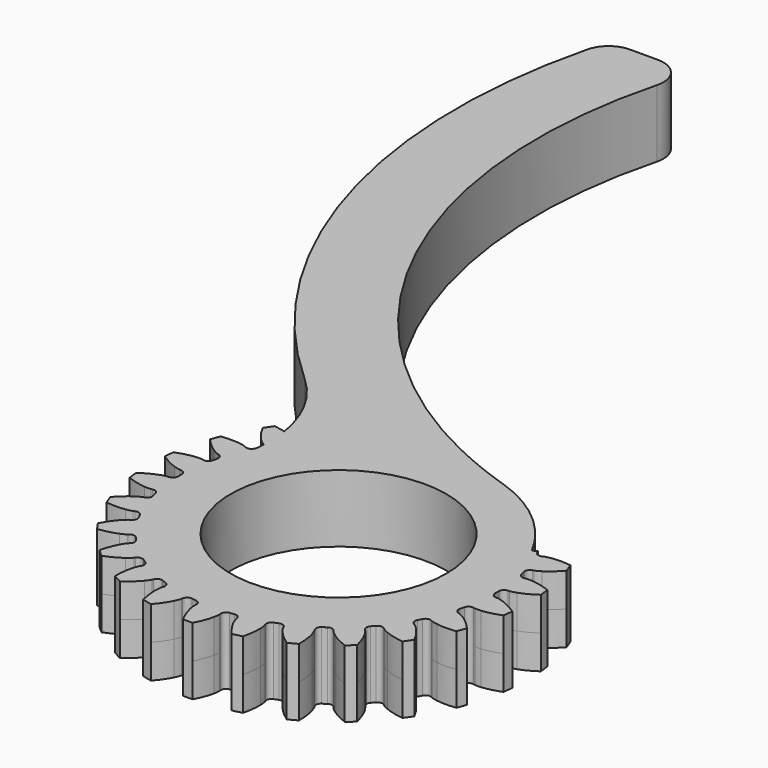
from build123d import *

# Parameters (mm, degrees)
SKETCH019_R     = 8
PAD013_DEPTH    = 2.5
FILLET005_R     = 10
FILLET006_R     = 2
CHAMFER002_SIZE = 0.8
PAD014_DEPTH    = 2.5
SKETCH020_R     = 8
POCKET007_DEPTH = 5.001
POCKET008_DEPTH = 5


with BuildPart() as part:
    # Sketch019 → Pad013 (new body, symmetric)
    with BuildSketch(Plane.XY):
        with BuildLine():
            ThreePointArc((-35, 12), (-33.110427, -16.51362), (-11.470762, -35.177004))
            ThreePointArc((-21.943947, -36.979226), (-13.06944, -57.218988), (-11.470762, -35.177004))
            ThreePointArc((-41.291646, 12), (-39.992827, -15.797905), (-21.943947, -36.979226))
            Line((-41.291646, 12), (-35, 12))
        make_face()
        with Locations((-15, -46)):
            Circle(SKETCH019_R, mode=Mode.SUBTRACT)
    extrude(amount=PAD013_DEPTH, both=True)

    # Fillet005
    fillet005_edges = [part.edges().sort_by_distance(p)[0] for p in [
        (-21.943947, -36.979226, 0),
    ]]
    fillet(fillet005_edges, radius=FILLET005_R)

    # Fillet006
    fillet006_edges = [part.edges().sort_by_distance(p)[0] for p in [
        (-41.291646, 12, 0),
        (-35, 12, 0),
    ]]
    fillet(fillet006_edges, radius=FILLET006_R)

    # Chamfer002
    chamfer002_edges = [part.edges().sort_by_distance(p)[0] for p in [
        (-23, -46, 2.5),
        (-23, -46, -2.5),
    ]]
    chamfer(chamfer002_edges, length=CHAMFER002_SIZE)

    # InvoluteGear002 → Pad014 (join, symmetric)
    with BuildSketch(Plane(origin=(-15, -46, 0), x_dir=(0.992546, 0.121869, 0), z_dir=(0, 0, 1))):
        with BuildLine():
            Line((12.095609, -0.912763), (12.201012, -0.919963))
            add(Edge.make_bspline(
                [(12.201012, -0.919963), (12.252999, -0.920942), (12.409636, -0.91804), (12.670504, -0.863228)],
                knots=[0, 0, 0, 0, 1, 1, 1, 1], degree=3))
            add(Edge.make_bspline(
                [(12.670504, -0.863228), (12.983071, -0.796742), (13.434622, -0.656345), (13.996362, -0.361494)],
                knots=[0, 0, 0, 0, 1, 1, 1, 1], degree=3))
            ThreePointArc((13.996362, -0.361494), (14.000515, 0.000191), (13.995323, 0.361861))
            add(Edge.make_bspline(
                [(13.995323, 0.361861), (13.434622, 0.656345), (12.983071, 0.796742), (12.670504, 0.863228)],
                knots=[0, 0, 0, 0, 1, 1, 1, 1], degree=3))
            add(Edge.make_bspline(
                [(12.670504, 0.863228), (12.409636, 0.91804), (12.252999, 0.920942), (12.201012, 0.919963)],
                knots=[0, 0, 0, 0, 1, 1, 1, 1], degree=3))
            Line((12.201012, 0.919963), (12.095609, 0.912763))
            ThreePointArc((12.095609, 0.912763), (11.820254, 0.99725), (11.683256, 1.250608))
            ThreePointArc((11.683256, 1.250608), (11.664329, 1.416306), (11.643052, 1.581719))
            ThreePointArc((11.643052, 1.581719), (11.715437, 1.8605), (11.962571, 2.008429))
            Line((11.962571, 2.008429), (12.066634, 2.026663))
            add(Edge.make_bspline(
                [(12.066634, 2.026663), (12.117345, 2.038154), (12.268736, 2.078457), (12.508906, 2.194106)],
                knots=[0, 0, 0, 0, 1, 1, 1, 1], degree=3))
            add(Edge.make_bspline(
                [(12.508906, 2.194106), (12.79648, 2.333462), (13.20131, 2.577843), (13.676164, 2.998559)],
                knots=[0, 0, 0, 0, 1, 1, 1, 1], degree=3))
            ThreePointArc((13.676164, 2.998559), (13.59364, 3.350727), (13.502045, 3.700646))
            add(Edge.make_bspline(
                [(13.502045, 3.700646), (12.887162, 3.852388), (12.415134, 3.880643), (12.095739, 3.870394)],
                knots=[0, 0, 0, 0, 1, 1, 1, 1], degree=3))
            add(Edge.make_bspline(
                [(12.095739, 3.870394), (11.829334, 3.861183), (11.676553, 3.826516), (11.626311, 3.813123)],
                knots=[0, 0, 0, 0, 1, 1, 1, 1], degree=3))
            Line((11.626311, 3.813123), (11.525694, 3.780909))
            ThreePointArc((11.525694, 3.780909), (11.238122, 3.797044), (11.044472, 4.010253))
            ThreePointArc((11.044472, 4.010253), (10.986441, 4.166607), (10.926196, 4.322122))
            ThreePointArc((10.926196, 4.322122), (10.929761, 4.610125), (11.134312, 4.812898))
            Line((11.134312, 4.812898), (11.230987, 4.855506))
            add(Edge.make_bspline(
                [(11.230987, 4.855506), (11.277475, 4.878799), (11.414822, 4.954162), (11.620336, 5.123927)],
                knots=[0, 0, 0, 0, 1, 1, 1, 1], degree=3))
            add(Edge.make_bspline(
                [(11.620336, 5.123927), (11.866203, 5.328054), (12.200786, 5.662215), (12.561157, 6.184347)],
                knots=[0, 0, 0, 0, 1, 1, 1, 1], degree=3))
            ThreePointArc((12.561157, 6.184347), (12.396752, 6.506532), (12.224077, 6.824363))
            add(Edge.make_bspline(
                [(12.224077, 6.824363), (11.590748, 6.824545), (11.125674, 6.739014), (10.818013, 6.652627)],
                knots=[0, 0, 0, 0, 1, 1, 1, 1], degree=3))
            add(Edge.make_bspline(
                [(10.818013, 6.652627), (10.561553, 6.579929), (10.421509, 6.509706), (10.375931, 6.484679)],
                knots=[0, 0, 0, 0, 1, 1, 1, 1], degree=3))
            Line((10.375931, 6.484679), (10.285948, 6.429322))
            ThreePointArc((10.285948, 6.429322), (10.00287, 6.376167), (9.763823, 6.536838))
            ThreePointArc((9.763823, 6.536838), (9.67006, 6.674761), (9.574349, 6.811339))
            ThreePointArc((9.574349, 6.811339), (9.508887, 7.091826), (9.658968, 7.337659))
            Line((9.658968, 7.337659), (9.742636, 7.402165))
            add(Edge.make_bspline(
                [(9.742636, 7.402165), (9.782199, 7.435906), (9.897519, 7.541949), (10.056434, 7.755963)],
                knots=[0, 0, 0, 0, 1, 1, 1, 1], degree=3))
            add(Edge.make_bspline(
                [(10.056434, 7.755963), (10.246306, 8.012998), (10.491196, 8.417521), (10.716142, 9.010723)],
                knots=[0, 0, 0, 0, 1, 1, 1, 1], degree=3))
            ThreePointArc((10.716142, 9.010723), (10.479409, 9.284201), (10.235691, 9.551473))
            add(Edge.make_bspline(
                [(10.235691, 9.551473), (9.620722, 9.400084), (9.18963, 9.205739), (8.911583, 9.048234)],
                knots=[0, 0, 0, 0, 1, 1, 1, 1], degree=3))
            add(Edge.make_bspline(
                [(8.911583, 9.048234), (8.679973, 8.916274), (8.560804, 8.814576), (8.52254, 8.779369)],
                knots=[0, 0, 0, 0, 1, 1, 1, 1], degree=3))
            Line((8.52254, 8.779369), (8.448419, 8.704086))
            ThreePointArc((8.448419, 8.704086), (8.186288, 8.584731), (7.915737, 8.683525))
            ThreePointArc((7.915737, 8.683525), (7.791691, 8.795001), (7.666076, 8.904705))
            ThreePointArc((7.666076, 8.904705), (7.535391, 9.161376), (7.622279, 9.435982))
            Line((7.622279, 9.435982), (7.688079, 9.518637))
            add(Edge.make_bspline(
                [(7.688079, 9.518637), (7.718417, 9.560866), (7.805009, 9.691425), (7.908089, 9.937251)],
                knots=[0, 0, 0, 0, 1, 1, 1, 1], degree=3))
            add(Edge.make_bspline(
                [(7.908089, 9.937251), (8.030931, 10.232257), (8.171896, 10.68363), (8.248343, 11.313428)],
                knots=[0, 0, 0, 0, 1, 1, 1, 1], degree=3))
            ThreePointArc((8.248343, 11.313428), (7.953042, 11.522306), (7.652443, 11.723485))
            add(Edge.make_bspline(
                [(7.652443, 11.723485), (7.091574, 11.429324), (6.719519, 11.137459), (6.487244, 10.91799)],
                knots=[0, 0, 0, 0, 1, 1, 1, 1], degree=3))
            add(Edge.make_bspline(
                [(6.487244, 10.91799), (6.293945, 10.734436), (6.202576, 10.607175), (6.17385, 10.563834)],
                knots=[0, 0, 0, 0, 1, 1, 1, 1], degree=3))
            Line((6.17385, 10.563834), (6.1199, 10.473))
            ThreePointArc((6.1199, 10.473), (5.893949, 10.294381), (5.607616, 10.325558))
            ThreePointArc((5.607616, 10.325558), (5.460497, 10.404108), (5.312278, 10.480563))
            ThreePointArc((5.312278, 10.480563), (5.123965, 10.6985), (5.142611, 10.985921))
            Line((5.142611, 10.985921), (5.186718, 11.081921))
            add(Edge.make_bspline(
                [(5.186718, 11.081921), (5.206069, 11.130183), (5.2589, 11.27767), (5.300155, 11.541023)],
                knots=[0, 0, 0, 0, 1, 1, 1, 1], degree=3))
            add(Edge.make_bspline(
                [(5.300155, 11.541023), (5.348828, 11.856854), (5.377676, 12.328846), (5.301181, 12.958638)],
                knots=[0, 0, 0, 0, 1, 1, 1, 1], degree=3))
            ThreePointArc((5.301181, 12.958638), (4.964473, 13.090776), (4.624464, 13.214172))
            add(Edge.make_bspline(
                [(4.624464, 13.214172), (4.150289, 12.794333), (3.858893, 12.421911), (3.685891, 12.153232)],
                knots=[0, 0, 0, 0, 1, 1, 1, 1], degree=3))
            add(Edge.make_bspline(
                [(3.685891, 12.153232), (3.542136, 11.928753), (3.483878, 11.783324), (3.466358, 11.734367)],
                knots=[0, 0, 0, 0, 1, 1, 1, 1], degree=3))
            Line((3.466358, 11.734367), (3.435713, 11.633261))
            ThreePointArc((3.435713, 11.633261), (3.259075, 11.40576), (2.973601, 11.367506))
            ThreePointArc((2.973601, 11.367506), (2.811959, 11.408566), (2.64975, 11.447328))
            ThreePointArc((2.64975, 11.447328), (2.414753, 11.613866), (2.364073, 11.897397))
            Line((2.364073, 11.897397), (2.383924, 12.001163))
            add(Edge.make_bspline(
                [(2.383924, 12.001163), (2.391163, 12.052654), (2.407162, 12.208499), (2.384194, 12.474071)],
                knots=[0, 0, 0, 0, 1, 1, 1, 1], degree=3))
            add(Edge.make_bspline(
                [(2.384194, 12.474071), (2.35587, 12.792373), (2.270924, 13.257555), (2.045933, 13.850739)],
                knots=[0, 0, 0, 0, 1, 1, 1, 1], degree=3))
            ThreePointArc((2.045933, 13.850739), (1.687386, 13.898458), (1.327727, 13.936899))
            add(Edge.make_bspline(
                [(1.327727, 13.936899), (0.967805, 13.415782), (0.774003, 12.984447), (0.670327, 12.682173)],
                knots=[0, 0, 0, 0, 1, 1, 1, 1], degree=3))
            add(Edge.make_bspline(
                [(0.670327, 12.682173), (0.58447, 12.429814), (0.562709, 12.274668), (0.557414, 12.222942)],
                knots=[0, 0, 0, 0, 1, 1, 1, 1], degree=3))
            Line((0.557414, 12.222942), (0.551856, 12.11744))
            ThreePointArc((0.551856, 12.11744), (0.434795, 11.854277), (0.166772, 11.748816))
            ThreePointArc((0.166772, 11.748816), (0, 11.75), (-0.166772, 11.748816))
            ThreePointArc((-0.166772, 11.748816), (-0.434795, 11.854277), (-0.551856, 12.11744))
            Line((-0.551856, 12.11744), (-0.557414, 12.222942))
            add(Edge.make_bspline(
                [(-0.557414, 12.222942), (-0.562709, 12.274668), (-0.58447, 12.429814), (-0.670327, 12.682173)],
                knots=[0, 0, 0, 0, 1, 1, 1, 1], degree=3))
            add(Edge.make_bspline(
                [(-0.670327, 12.682173), (-0.774003, 12.984447), (-0.967805, 13.415782), (-1.328217, 13.937886)],
                knots=[0, 0, 0, 0, 1, 1, 1, 1], degree=3))
            ThreePointArc((-1.328217, 13.937886), (-1.687765, 13.898412), (-2.046173, 13.849663))
            add(Edge.make_bspline(
                [(-2.046173, 13.849663), (-2.270924, 13.257555), (-2.35587, 12.792373), (-2.384194, 12.474071)],
                knots=[0, 0, 0, 0, 1, 1, 1, 1], degree=3))
            add(Edge.make_bspline(
                [(-2.384194, 12.474071), (-2.407162, 12.208499), (-2.391163, 12.052654), (-2.383924, 12.001163)],
                knots=[0, 0, 0, 0, 1, 1, 1, 1], degree=3))
            Line((-2.383924, 12.001163), (-2.364073, 11.897397))
            ThreePointArc((-2.364073, 11.897397), (-2.414753, 11.613866), (-2.64975, 11.447328))
            ThreePointArc((-2.64975, 11.447328), (-2.811959, 11.408566), (-2.973601, 11.367506))
            ThreePointArc((-2.973601, 11.367506), (-3.259075, 11.40576), (-3.435713, 11.633261))
            Line((-3.435713, 11.633261), (-3.466358, 11.734367))
            add(Edge.make_bspline(
                [(-3.466358, 11.734367), (-3.483878, 11.783324), (-3.542136, 11.928753), (-3.685891, 12.153232)],
                knots=[0, 0, 0, 0, 1, 1, 1, 1], degree=3))
            add(Edge.make_bspline(
                [(-3.685891, 12.153232), (-3.858893, 12.421911), (-4.150289, 12.794333), (-4.625176, 13.215013)],
                knots=[0, 0, 0, 0, 1, 1, 1, 1], degree=3))
            ThreePointArc((-4.625176, 13.215013), (-4.964829, 13.090641), (-5.301156, 12.957536))
            add(Edge.make_bspline(
                [(-5.301156, 12.957536), (-5.377676, 12.328846), (-5.348828, 11.856854), (-5.300155, 11.541023)],
                knots=[0, 0, 0, 0, 1, 1, 1, 1], degree=3))
            add(Edge.make_bspline(
                [(-5.300155, 11.541023), (-5.2589, 11.27767), (-5.206069, 11.130183), (-5.186718, 11.081921)],
                knots=[0, 0, 0, 0, 1, 1, 1, 1], degree=3))
            Line((-5.186718, 11.081921), (-5.142611, 10.985921))
            ThreePointArc((-5.142611, 10.985921), (-5.123965, 10.6985), (-5.312278, 10.480563))
            ThreePointArc((-5.312278, 10.480563), (-5.460497, 10.404108), (-5.607616, 10.325558))
            ThreePointArc((-5.607616, 10.325558), (-5.893949, 10.294381), (-6.1199, 10.473))
            Line((-6.1199, 10.473), (-6.17385, 10.563834))
            add(Edge.make_bspline(
                [(-6.17385, 10.563834), (-6.202576, 10.607175), (-6.293945, 10.734436), (-6.487244, 10.91799)],
                knots=[0, 0, 0, 0, 1, 1, 1, 1], degree=3))
            add(Edge.make_bspline(
                [(-6.487244, 10.91799), (-6.719519, 11.137459), (-7.091574, 11.429324), (-7.653336, 11.724131)],
                knots=[0, 0, 0, 0, 1, 1, 1, 1], degree=3))
            ThreePointArc((-7.653336, 11.724131), (-7.953356, 11.522089), (-8.248055, 11.312364))
            add(Edge.make_bspline(
                [(-8.248055, 11.312364), (-8.171896, 10.68363), (-8.030931, 10.232257), (-7.908089, 9.937251)],
                knots=[0, 0, 0, 0, 1, 1, 1, 1], degree=3))
            add(Edge.make_bspline(
                [(-7.908089, 9.937251), (-7.805009, 9.691425), (-7.718417, 9.560866), (-7.688079, 9.518637)],
                knots=[0, 0, 0, 0, 1, 1, 1, 1], degree=3))
            Line((-7.688079, 9.518637), (-7.622279, 9.435982))
            ThreePointArc((-7.622279, 9.435982), (-7.535391, 9.161376), (-7.666076, 8.904705))
            ThreePointArc((-7.666076, 8.904705), (-7.791691, 8.795001), (-7.915737, 8.683525))
            ThreePointArc((-7.915737, 8.683525), (-8.186288, 8.584731), (-8.448419, 8.704086))
            Line((-8.448419, 8.704086), (-8.52254, 8.779369))
            add(Edge.make_bspline(
                [(-8.52254, 8.779369), (-8.560804, 8.814576), (-8.679973, 8.916274), (-8.911583, 9.048234)],
                knots=[0, 0, 0, 0, 1, 1, 1, 1], degree=3))
            add(Edge.make_bspline(
                [(-8.911583, 9.048234), (-9.18963, 9.205739), (-9.620722, 9.400084), (-10.236712, 9.551886)],
                knots=[0, 0, 0, 0, 1, 1, 1, 1], degree=3))
            ThreePointArc((-10.236712, 9.551886), (-10.479662, 9.283916), (-10.715608, 9.009759))
            add(Edge.make_bspline(
                [(-10.715608, 9.009759), (-10.491196, 8.417521), (-10.246306, 8.012998), (-10.056434, 7.755963)],
                knots=[0, 0, 0, 0, 1, 1, 1, 1], degree=3))
            add(Edge.make_bspline(
                [(-10.056434, 7.755963), (-9.897519, 7.541949), (-9.782199, 7.435906), (-9.742636, 7.402165)],
                knots=[0, 0, 0, 0, 1, 1, 1, 1], degree=3))
            Line((-9.742636, 7.402165), (-9.658968, 7.337659))
            ThreePointArc((-9.658968, 7.337659), (-9.508887, 7.091826), (-9.574349, 6.811339))
            ThreePointArc((-9.574349, 6.811339), (-9.67006, 6.674761), (-9.763823, 6.536838))
            ThreePointArc((-9.763823, 6.536838), (-10.00287, 6.376167), (-10.285948, 6.429322))
            Line((-10.285948, 6.429322), (-10.375931, 6.484679))
            add(Edge.make_bspline(
                [(-10.375931, 6.484679), (-10.421509, 6.509706), (-10.561553, 6.579929), (-10.818013, 6.652627)],
                knots=[0, 0, 0, 0, 1, 1, 1, 1], degree=3))
            add(Edge.make_bspline(
                [(-10.818013, 6.652627), (-11.125674, 6.739014), (-11.590748, 6.824545), (-12.225168, 6.82452)],
                knots=[0, 0, 0, 0, 1, 1, 1, 1], degree=3))
            ThreePointArc((-12.225168, 6.82452), (-12.396929, 6.506195), (-12.560408, 6.183539))
            add(Edge.make_bspline(
                [(-12.560408, 6.183539), (-12.200786, 5.662215), (-11.866203, 5.328054), (-11.620336, 5.123927)],
                knots=[0, 0, 0, 0, 1, 1, 1, 1], degree=3))
            add(Edge.make_bspline(
                [(-11.620336, 5.123927), (-11.414822, 4.954162), (-11.277475, 4.878799), (-11.230987, 4.855506)],
                knots=[0, 0, 0, 0, 1, 1, 1, 1], degree=3))
            Line((-11.230987, 4.855506), (-11.134312, 4.812898))
            ThreePointArc((-11.134312, 4.812898), (-10.929761, 4.610125), (-10.926196, 4.322122))
            ThreePointArc((-10.926196, 4.322122), (-10.986441, 4.166607), (-11.044472, 4.010253))
            ThreePointArc((-11.044472, 4.010253), (-11.238122, 3.797044), (-11.525694, 3.780909))
            Line((-11.525694, 3.780909), (-11.626311, 3.813123))
            add(Edge.make_bspline(
                [(-11.626311, 3.813123), (-11.676553, 3.826516), (-11.829334, 3.861183), (-12.095739, 3.870394)],
                knots=[0, 0, 0, 0, 1, 1, 1, 1], degree=3))
            add(Edge.make_bspline(
                [(-12.095739, 3.870394), (-12.415134, 3.880643), (-12.887162, 3.852388), (-13.503142, 3.700538)],
                knots=[0, 0, 0, 0, 1, 1, 1, 1], degree=3))
            ThreePointArc((-13.503142, 3.700538), (-13.593731, 3.350357), (-13.675243, 2.997954))
            add(Edge.make_bspline(
                [(-13.675243, 2.997954), (-13.20131, 2.577843), (-12.79648, 2.333462), (-12.508906, 2.194106)],
                knots=[0, 0, 0, 0, 1, 1, 1, 1], degree=3))
            add(Edge.make_bspline(
                [(-12.508906, 2.194106), (-12.268736, 2.078457), (-12.117345, 2.038154), (-12.066634, 2.026663)],
                knots=[0, 0, 0, 0, 1, 1, 1, 1], degree=3))
            Line((-12.066634, 2.026663), (-11.962571, 2.008429))
            ThreePointArc((-11.962571, 2.008429), (-11.715437, 1.8605), (-11.643052, 1.581719))
            ThreePointArc((-11.643052, 1.581719), (-11.664329, 1.416306), (-11.683256, 1.250608))
            ThreePointArc((-11.683256, 1.250608), (-11.820254, 0.99725), (-12.095609, 0.912763))
            Line((-12.095609, 0.912763), (-12.201012, 0.919963))
            add(Edge.make_bspline(
                [(-12.201012, 0.919963), (-12.252999, 0.920942), (-12.409636, 0.91804), (-12.670504, 0.863228)],
                knots=[0, 0, 0, 0, 1, 1, 1, 1], degree=3))
            add(Edge.make_bspline(
                [(-12.670504, 0.863228), (-12.983071, 0.796742), (-13.434622, 0.656345), (-13.996362, 0.361494)],
                knots=[0, 0, 0, 0, 1, 1, 1, 1], degree=3))
            ThreePointArc((-13.996362, 0.361494), (-14.000515, -0.000191), (-13.995323, -0.361861))
            add(Edge.make_bspline(
                [(-13.995323, -0.361861), (-13.434622, -0.656345), (-12.983071, -0.796742), (-12.670504, -0.863228)],
                knots=[0, 0, 0, 0, 1, 1, 1, 1], degree=3))
            add(Edge.make_bspline(
                [(-12.670504, -0.863228), (-12.409636, -0.91804), (-12.252999, -0.920942), (-12.201012, -0.919963)],
                knots=[0, 0, 0, 0, 1, 1, 1, 1], degree=3))
            Line((-12.201012, -0.919963), (-12.095609, -0.912763))
            ThreePointArc((-12.095609, -0.912763), (-11.820254, -0.99725), (-11.683256, -1.250608))
            ThreePointArc((-11.683256, -1.250608), (-11.664329, -1.416306), (-11.643052, -1.581719))
            ThreePointArc((-11.643052, -1.581719), (-11.715437, -1.8605), (-11.962571, -2.008429))
            Line((-11.962571, -2.008429), (-12.066634, -2.026663))
            add(Edge.make_bspline(
                [(-12.066634, -2.026663), (-12.117345, -2.038154), (-12.268736, -2.078457), (-12.508906, -2.194106)],
                knots=[0, 0, 0, 0, 1, 1, 1, 1], degree=3))
            add(Edge.make_bspline(
                [(-12.508906, -2.194106), (-12.79648, -2.333462), (-13.20131, -2.577843), (-13.676164, -2.998559)],
                knots=[0, 0, 0, 0, 1, 1, 1, 1], degree=3))
            ThreePointArc((-13.676164, -2.998559), (-13.59364, -3.350727), (-13.502045, -3.700646))
            add(Edge.make_bspline(
                [(-13.502045, -3.700646), (-12.887162, -3.852388), (-12.415134, -3.880643), (-12.095739, -3.870394)],
                knots=[0, 0, 0, 0, 1, 1, 1, 1], degree=3))
            add(Edge.make_bspline(
                [(-12.095739, -3.870394), (-11.829334, -3.861183), (-11.676553, -3.826516), (-11.626311, -3.813123)],
                knots=[0, 0, 0, 0, 1, 1, 1, 1], degree=3))
            Line((-11.626311, -3.813123), (-11.525694, -3.780909))
            ThreePointArc((-11.525694, -3.780909), (-11.238122, -3.797044), (-11.044472, -4.010253))
            ThreePointArc((-11.044472, -4.010253), (-10.986441, -4.166607), (-10.926196, -4.322122))
            ThreePointArc((-10.926196, -4.322122), (-10.929761, -4.610125), (-11.134312, -4.812898))
            Line((-11.134312, -4.812898), (-11.230987, -4.855506))
            add(Edge.make_bspline(
                [(-11.230987, -4.855506), (-11.277475, -4.878799), (-11.414822, -4.954162), (-11.620336, -5.123927)],
                knots=[0, 0, 0, 0, 1, 1, 1, 1], degree=3))
            add(Edge.make_bspline(
                [(-11.620336, -5.123927), (-11.866203, -5.328054), (-12.200786, -5.662215), (-12.561157, -6.184347)],
                knots=[0, 0, 0, 0, 1, 1, 1, 1], degree=3))
            ThreePointArc((-12.561157, -6.184347), (-12.396752, -6.506532), (-12.224077, -6.824363))
            add(Edge.make_bspline(
                [(-12.224077, -6.824363), (-11.590748, -6.824545), (-11.125674, -6.739014), (-10.818013, -6.652627)],
                knots=[0, 0, 0, 0, 1, 1, 1, 1], degree=3))
            add(Edge.make_bspline(
                [(-10.818013, -6.652627), (-10.561553, -6.579929), (-10.421509, -6.509706), (-10.375931, -6.484679)],
                knots=[0, 0, 0, 0, 1, 1, 1, 1], degree=3))
            Line((-10.375931, -6.484679), (-10.285948, -6.429322))
            ThreePointArc((-10.285948, -6.429322), (-10.00287, -6.376167), (-9.763823, -6.536838))
            ThreePointArc((-9.763823, -6.536838), (-9.67006, -6.674761), (-9.574349, -6.811339))
            ThreePointArc((-9.574349, -6.811339), (-9.508887, -7.091826), (-9.658968, -7.337659))
            Line((-9.658968, -7.337659), (-9.742636, -7.402165))
            add(Edge.make_bspline(
                [(-9.742636, -7.402165), (-9.782199, -7.435906), (-9.897519, -7.541949), (-10.056434, -7.755963)],
                knots=[0, 0, 0, 0, 1, 1, 1, 1], degree=3))
            add(Edge.make_bspline(
                [(-10.056434, -7.755963), (-10.246306, -8.012998), (-10.491196, -8.417521), (-10.716142, -9.010723)],
                knots=[0, 0, 0, 0, 1, 1, 1, 1], degree=3))
            ThreePointArc((-10.716142, -9.010723), (-10.479409, -9.284201), (-10.235691, -9.551473))
            add(Edge.make_bspline(
                [(-10.235691, -9.551473), (-9.620722, -9.400084), (-9.18963, -9.205739), (-8.911583, -9.048234)],
                knots=[0, 0, 0, 0, 1, 1, 1, 1], degree=3))
            add(Edge.make_bspline(
                [(-8.911583, -9.048234), (-8.679973, -8.916274), (-8.560804, -8.814576), (-8.52254, -8.779369)],
                knots=[0, 0, 0, 0, 1, 1, 1, 1], degree=3))
            Line((-8.52254, -8.779369), (-8.448419, -8.704086))
            ThreePointArc((-8.448419, -8.704086), (-8.186288, -8.584731), (-7.915737, -8.683525))
            ThreePointArc((-7.915737, -8.683525), (-7.791691, -8.795001), (-7.666076, -8.904705))
            ThreePointArc((-7.666076, -8.904705), (-7.535391, -9.161376), (-7.622279, -9.435982))
            Line((-7.622279, -9.435982), (-7.688079, -9.518637))
            add(Edge.make_bspline(
                [(-7.688079, -9.518637), (-7.718417, -9.560866), (-7.805009, -9.691425), (-7.908089, -9.937251)],
                knots=[0, 0, 0, 0, 1, 1, 1, 1], degree=3))
            add(Edge.make_bspline(
                [(-7.908089, -9.937251), (-8.030931, -10.232257), (-8.171896, -10.68363), (-8.248343, -11.313428)],
                knots=[0, 0, 0, 0, 1, 1, 1, 1], degree=3))
            ThreePointArc((-8.248343, -11.313428), (-7.953042, -11.522306), (-7.652443, -11.723485))
            add(Edge.make_bspline(
                [(-7.652443, -11.723485), (-7.091574, -11.429324), (-6.719519, -11.137459), (-6.487244, -10.91799)],
                knots=[0, 0, 0, 0, 1, 1, 1, 1], degree=3))
            add(Edge.make_bspline(
                [(-6.487244, -10.91799), (-6.293945, -10.734436), (-6.202576, -10.607175), (-6.17385, -10.563834)],
                knots=[0, 0, 0, 0, 1, 1, 1, 1], degree=3))
            Line((-6.17385, -10.563834), (-6.1199, -10.473))
            ThreePointArc((-6.1199, -10.473), (-5.893949, -10.294381), (-5.607616, -10.325558))
            ThreePointArc((-5.607616, -10.325558), (-5.460497, -10.404108), (-5.312278, -10.480563))
            ThreePointArc((-5.312278, -10.480563), (-5.123965, -10.6985), (-5.142611, -10.985921))
            Line((-5.142611, -10.985921), (-5.186718, -11.081921))
            add(Edge.make_bspline(
                [(-5.186718, -11.081921), (-5.206069, -11.130183), (-5.2589, -11.27767), (-5.300155, -11.541023)],
                knots=[0, 0, 0, 0, 1, 1, 1, 1], degree=3))
            add(Edge.make_bspline(
                [(-5.300155, -11.541023), (-5.348828, -11.856854), (-5.377676, -12.328846), (-5.301181, -12.958638)],
                knots=[0, 0, 0, 0, 1, 1, 1, 1], degree=3))
            ThreePointArc((-5.301181, -12.958638), (-4.964473, -13.090776), (-4.624464, -13.214172))
            add(Edge.make_bspline(
                [(-4.624464, -13.214172), (-4.150289, -12.794333), (-3.858893, -12.421911), (-3.685891, -12.153232)],
                knots=[0, 0, 0, 0, 1, 1, 1, 1], degree=3))
            add(Edge.make_bspline(
                [(-3.685891, -12.153232), (-3.542136, -11.928753), (-3.483878, -11.783324), (-3.466358, -11.734367)],
                knots=[0, 0, 0, 0, 1, 1, 1, 1], degree=3))
            Line((-3.466358, -11.734367), (-3.435713, -11.633261))
            ThreePointArc((-3.435713, -11.633261), (-3.259075, -11.40576), (-2.973601, -11.367506))
            ThreePointArc((-2.973601, -11.367506), (-2.811959, -11.408566), (-2.64975, -11.447328))
            ThreePointArc((-2.64975, -11.447328), (-2.414753, -11.613866), (-2.364073, -11.897397))
            Line((-2.364073, -11.897397), (-2.383924, -12.001163))
            add(Edge.make_bspline(
                [(-2.383924, -12.001163), (-2.391163, -12.052654), (-2.407162, -12.208499), (-2.384194, -12.474071)],
                knots=[0, 0, 0, 0, 1, 1, 1, 1], degree=3))
            add(Edge.make_bspline(
                [(-2.384194, -12.474071), (-2.35587, -12.792373), (-2.270924, -13.257555), (-2.045933, -13.850739)],
                knots=[0, 0, 0, 0, 1, 1, 1, 1], degree=3))
            ThreePointArc((-2.045933, -13.850739), (-1.687386, -13.898458), (-1.327727, -13.936899))
            add(Edge.make_bspline(
                [(-1.327727, -13.936899), (-0.967805, -13.415782), (-0.774003, -12.984447), (-0.670327, -12.682173)],
                knots=[0, 0, 0, 0, 1, 1, 1, 1], degree=3))
            add(Edge.make_bspline(
                [(-0.670327, -12.682173), (-0.58447, -12.429814), (-0.562709, -12.274668), (-0.557414, -12.222942)],
                knots=[0, 0, 0, 0, 1, 1, 1, 1], degree=3))
            Line((-0.557414, -12.222942), (-0.551856, -12.11744))
            ThreePointArc((-0.551856, -12.11744), (-0.434795, -11.854277), (-0.166772, -11.748816))
            ThreePointArc((-0.166772, -11.748816), (0, -11.75), (0.166772, -11.748816))
            ThreePointArc((0.166772, -11.748816), (0.434795, -11.854277), (0.551856, -12.11744))
            Line((0.551856, -12.11744), (0.557414, -12.222942))
            add(Edge.make_bspline(
                [(0.557414, -12.222942), (0.562709, -12.274668), (0.58447, -12.429814), (0.670327, -12.682173)],
                knots=[0, 0, 0, 0, 1, 1, 1, 1], degree=3))
            add(Edge.make_bspline(
                [(0.670327, -12.682173), (0.774003, -12.984447), (0.967805, -13.415782), (1.328217, -13.937886)],
                knots=[0, 0, 0, 0, 1, 1, 1, 1], degree=3))
            ThreePointArc((1.328217, -13.937886), (1.687765, -13.898412), (2.046173, -13.849663))
            add(Edge.make_bspline(
                [(2.046173, -13.849663), (2.270924, -13.257555), (2.35587, -12.792373), (2.384194, -12.474071)],
                knots=[0, 0, 0, 0, 1, 1, 1, 1], degree=3))
            add(Edge.make_bspline(
                [(2.384194, -12.474071), (2.407162, -12.208499), (2.391163, -12.052654), (2.383924, -12.001163)],
                knots=[0, 0, 0, 0, 1, 1, 1, 1], degree=3))
            Line((2.383924, -12.001163), (2.364073, -11.897397))
            ThreePointArc((2.364073, -11.897397), (2.414753, -11.613866), (2.64975, -11.447328))
            ThreePointArc((2.64975, -11.447328), (2.811959, -11.408566), (2.973601, -11.367506))
            ThreePointArc((2.973601, -11.367506), (3.259075, -11.40576), (3.435713, -11.633261))
            Line((3.435713, -11.633261), (3.466358, -11.734367))
            add(Edge.make_bspline(
                [(3.466358, -11.734367), (3.483878, -11.783324), (3.542136, -11.928753), (3.685891, -12.153232)],
                knots=[0, 0, 0, 0, 1, 1, 1, 1], degree=3))
            add(Edge.make_bspline(
                [(3.685891, -12.153232), (3.858893, -12.421911), (4.150289, -12.794333), (4.625176, -13.215013)],
                knots=[0, 0, 0, 0, 1, 1, 1, 1], degree=3))
            ThreePointArc((4.625176, -13.215013), (4.964829, -13.090641), (5.301156, -12.957536))
            add(Edge.make_bspline(
                [(5.301156, -12.957536), (5.377676, -12.328846), (5.348828, -11.856854), (5.300155, -11.541023)],
                knots=[0, 0, 0, 0, 1, 1, 1, 1], degree=3))
            add(Edge.make_bspline(
                [(5.300155, -11.541023), (5.2589, -11.27767), (5.206069, -11.130183), (5.186718, -11.081921)],
                knots=[0, 0, 0, 0, 1, 1, 1, 1], degree=3))
            Line((5.186718, -11.081921), (5.142611, -10.985921))
            ThreePointArc((5.142611, -10.985921), (5.123965, -10.6985), (5.312278, -10.480563))
            ThreePointArc((5.312278, -10.480563), (5.460497, -10.404108), (5.607616, -10.325558))
            ThreePointArc((5.607616, -10.325558), (5.893949, -10.294381), (6.1199, -10.473))
            Line((6.1199, -10.473), (6.17385, -10.563834))
            add(Edge.make_bspline(
                [(6.17385, -10.563834), (6.202576, -10.607175), (6.293945, -10.734436), (6.487244, -10.91799)],
                knots=[0, 0, 0, 0, 1, 1, 1, 1], degree=3))
            add(Edge.make_bspline(
                [(6.487244, -10.91799), (6.719519, -11.137459), (7.091574, -11.429324), (7.653336, -11.724131)],
                knots=[0, 0, 0, 0, 1, 1, 1, 1], degree=3))
            ThreePointArc((7.653336, -11.724131), (7.953356, -11.522089), (8.248055, -11.312364))
            add(Edge.make_bspline(
                [(8.248055, -11.312364), (8.171896, -10.68363), (8.030931, -10.232257), (7.908089, -9.937251)],
                knots=[0, 0, 0, 0, 1, 1, 1, 1], degree=3))
            add(Edge.make_bspline(
                [(7.908089, -9.937251), (7.805009, -9.691425), (7.718417, -9.560866), (7.688079, -9.518637)],
                knots=[0, 0, 0, 0, 1, 1, 1, 1], degree=3))
            Line((7.688079, -9.518637), (7.622279, -9.435982))
            ThreePointArc((7.622279, -9.435982), (7.535391, -9.161376), (7.666076, -8.904705))
            ThreePointArc((7.666076, -8.904705), (7.791691, -8.795001), (7.915737, -8.683525))
            ThreePointArc((7.915737, -8.683525), (8.186288, -8.584731), (8.448419, -8.704086))
            Line((8.448419, -8.704086), (8.52254, -8.779369))
            add(Edge.make_bspline(
                [(8.52254, -8.779369), (8.560804, -8.814576), (8.679973, -8.916274), (8.911583, -9.048234)],
                knots=[0, 0, 0, 0, 1, 1, 1, 1], degree=3))
            add(Edge.make_bspline(
                [(8.911583, -9.048234), (9.18963, -9.205739), (9.620722, -9.400084), (10.236712, -9.551886)],
                knots=[0, 0, 0, 0, 1, 1, 1, 1], degree=3))
            ThreePointArc((10.236712, -9.551886), (10.479662, -9.283916), (10.715608, -9.009759))
            add(Edge.make_bspline(
                [(10.715608, -9.009759), (10.491196, -8.417521), (10.246306, -8.012998), (10.056434, -7.755963)],
                knots=[0, 0, 0, 0, 1, 1, 1, 1], degree=3))
            add(Edge.make_bspline(
                [(10.056434, -7.755963), (9.897519, -7.541949), (9.782199, -7.435906), (9.742636, -7.402165)],
                knots=[0, 0, 0, 0, 1, 1, 1, 1], degree=3))
            Line((9.742636, -7.402165), (9.658968, -7.337659))
            ThreePointArc((9.658968, -7.337659), (9.508887, -7.091826), (9.574349, -6.811339))
            ThreePointArc((9.574349, -6.811339), (9.67006, -6.674761), (9.763823, -6.536838))
            ThreePointArc((9.763823, -6.536838), (10.00287, -6.376167), (10.285948, -6.429322))
            Line((10.285948, -6.429322), (10.375931, -6.484679))
            add(Edge.make_bspline(
                [(10.375931, -6.484679), (10.421509, -6.509706), (10.561553, -6.579929), (10.818013, -6.652627)],
                knots=[0, 0, 0, 0, 1, 1, 1, 1], degree=3))
            add(Edge.make_bspline(
                [(10.818013, -6.652627), (11.125674, -6.739014), (11.590748, -6.824545), (12.225168, -6.82452)],
                knots=[0, 0, 0, 0, 1, 1, 1, 1], degree=3))
            ThreePointArc((12.225168, -6.82452), (12.396929, -6.506195), (12.560408, -6.183539))
            add(Edge.make_bspline(
                [(12.560408, -6.183539), (12.200786, -5.662215), (11.866203, -5.328054), (11.620336, -5.123927)],
                knots=[0, 0, 0, 0, 1, 1, 1, 1], degree=3))
            add(Edge.make_bspline(
                [(11.620336, -5.123927), (11.414822, -4.954162), (11.277475, -4.878799), (11.230987, -4.855506)],
                knots=[0, 0, 0, 0, 1, 1, 1, 1], degree=3))
            Line((11.230987, -4.855506), (11.134312, -4.812898))
            ThreePointArc((11.134312, -4.812898), (10.929761, -4.610125), (10.926196, -4.322122))
            ThreePointArc((10.926196, -4.322122), (10.986441, -4.166607), (11.044472, -4.010253))
            ThreePointArc((11.044472, -4.010253), (11.238122, -3.797044), (11.525694, -3.780909))
            Line((11.525694, -3.780909), (11.626311, -3.813123))
            add(Edge.make_bspline(
                [(11.626311, -3.813123), (11.676553, -3.826516), (11.829334, -3.861183), (12.095739, -3.870394)],
                knots=[0, 0, 0, 0, 1, 1, 1, 1], degree=3))
            add(Edge.make_bspline(
                [(12.095739, -3.870394), (12.415134, -3.880643), (12.887162, -3.852388), (13.503142, -3.700538)],
                knots=[0, 0, 0, 0, 1, 1, 1, 1], degree=3))
            ThreePointArc((13.503142, -3.700538), (13.593731, -3.350357), (13.675243, -2.997954))
            add(Edge.make_bspline(
                [(13.675243, -2.997954), (13.20131, -2.577843), (12.79648, -2.333462), (12.508906, -2.194106)],
                knots=[0, 0, 0, 0, 1, 1, 1, 1], degree=3))
            add(Edge.make_bspline(
                [(12.508906, -2.194106), (12.268736, -2.078457), (12.117345, -2.038154), (12.066634, -2.026663)],
                knots=[0, 0, 0, 0, 1, 1, 1, 1], degree=3))
            Line((12.066634, -2.026663), (11.962571, -2.008429))
            ThreePointArc((11.962571, -2.008429), (11.715437, -1.8605), (11.643052, -1.581719))
            ThreePointArc((11.643052, -1.581719), (11.664329, -1.416306), (11.683256, -1.250608))
            ThreePointArc((11.683256, -1.250608), (11.820254, -0.99725), (12.095609, -0.912763))
        make_face()
    extrude(amount=PAD014_DEPTH, both=True)

    # Sketch020 (on Face243 of Pad014) → Pocket007 (cut, through all)
    with BuildSketch(Plane.XY.offset(2.5)):
        with Locations((-15, -46)):
            Circle(SKETCH020_R)
    extrude(amount=-POCKET007_DEPTH, mode=Mode.SUBTRACT)

    # Sketch021 (on Face244 of Pocket007) → Pocket008 (cut)
    with BuildSketch(Plane.XY.offset(2.5)):
        with BuildLine():
            ThreePointArc((-4.934397, -40.648024), (-7.667614, -37.270962), (-11.465765, -35.16168))
            ThreePointArc((-19.210682, -31.60312), (-15.44108, -33.606258), (-11.465765, -35.16168))
            ThreePointArc((-1.755786, -38.957927), (-9.175528, -32.176993), (-19.210682, -31.60312))
            Line((-4.934397, -40.648024), (-1.755786, -38.957927))
        make_face()
    extrude(amount=-POCKET008_DEPTH, mode=Mode.SUBTRACT)


with BuildPart() as part_1:
    # Body004 placement: moved
    add(part.part.moved(Location((15, 46, 0))))


solid = part_1.part
